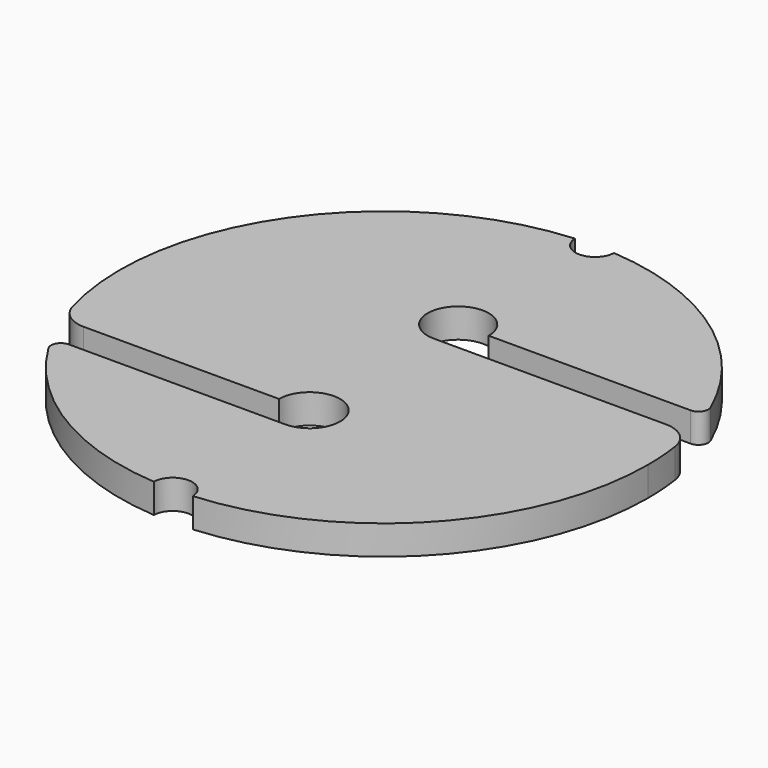
from build123d import *

# Parameters (mm, degrees)
F1_DEPTH = 3
F2_R     = 3
F3_R     = 1
F5_DEPTH = 25


with BuildPart() as f1:
    # F0 (on Top) → F1 (new body)
    with BuildSketch(Plane.XY):
        with BuildLine():
            ThreePointArc((-23.866491, -12.625), (6.504028, -26.204916), (27, 0))
            ThreePointArc((27, 0), (26.808472, 3.210273), (26.236604, 6.375))
            Line((26.236604, 6.375), (0, 6.375))
            ThreePointArc((0, 6.375), (-2.209709, 11.709709), (3.125, 9.5))
            Line((3.125, 9.5), (25.273504, 9.5))
            ThreePointArc((25.273504, 9.5), (-9.5, 25.273504), (-25.273504, -9.5))
            Line((-25.273504, -9.5), (-3.125, -9.5))
            ThreePointArc((-3.125, -9.5), (0, -6.375), (3.125, -9.5))
            ThreePointArc((3.125, -9.5), (2.209709, -11.709709), (0, -12.625))
            Line((0, -12.625), (-23.866491, -12.625))
        make_face()
    extrude(amount=F1_DEPTH)

    # F2
    f2_edges = [f1.edges().sort_by_distance(p)[0] for p in [
        (-25.273504, -9.5, 1.5),
        (26.236604, 6.375, 1.5),
    ]]
    fillet(f2_edges, radius=F2_R)

    # F3
    f3_edges = [f1.edges().sort_by_distance(p)[0] for p in [
        (25.273504, 9.5, 1.5),
        (-23.866491, -12.625, 1.5),
    ]]
    fillet(f3_edges, radius=F3_R)

    # F4 (on face) → F5 (cut)
    with BuildSketch(Plane.XY.offset(3)):
        with BuildLine():
            ThreePointArc((1.998628, 26.925926), (0, 27), (-1.998628, 26.925926))
            ThreePointArc((-1.998628, 26.925926), (0, 25), (1.998628, 26.925926))
        make_face()
        with BuildLine():
            ThreePointArc((-1.998628, -26.925926), (0, -27), (1.998628, -26.925926))
            ThreePointArc((1.998628, -26.925926), (0, -25), (-1.998628, -26.925926))
        make_face()
    extrude(amount=-F5_DEPTH, mode=Mode.SUBTRACT)


solid = f1.part
